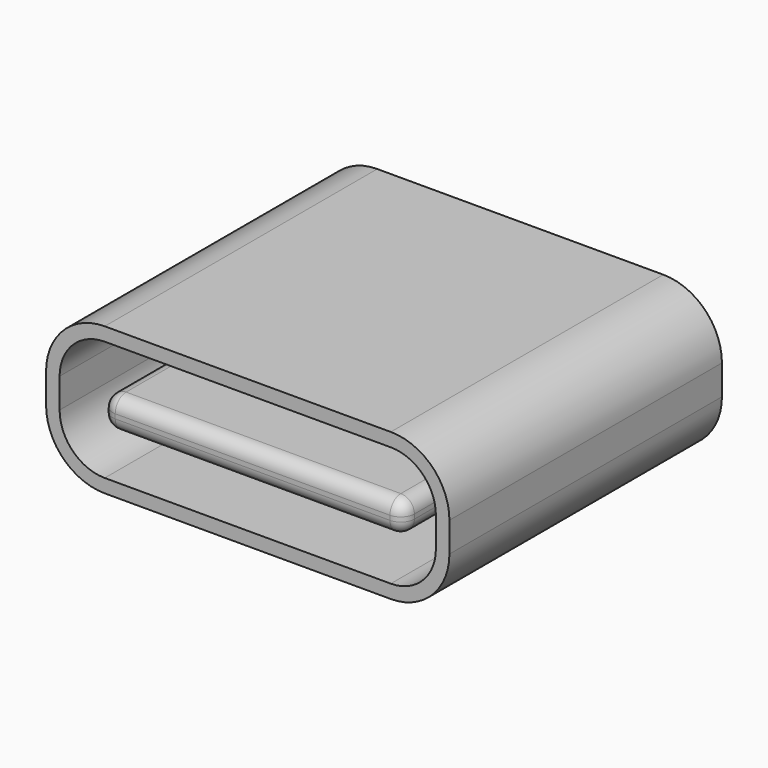
from build123d import *

# Parameters (mm, degrees)
PAD_DEPTH    = 3.775
SKETCH001_W  = 6.69
SKETCH001_H  = 0.7
POCKET_DEPTH = 5
FILLET_R     = 0.3
FILLET001_R  = 0.3


with BuildPart() as part:
    # Sketch → Pad (new body, symmetric)
    with BuildSketch(Plane.XZ):
        with BuildLine():
            Line((-3.17, 3.26), (3.17, 3.26))
            ThreePointArc((4.47, 1.96), (4.089239, 2.879239), (3.17, 3.26))
            Line((4.47, 1.96), (4.47, 1.3))
            ThreePointArc((3.17, 0), (4.089239, 0.380761), (4.47, 1.3))
            Line((3.17, 0), (-3.17, 0))
            ThreePointArc((-4.47, 1.3), (-4.089239, 0.380761), (-3.17, 0))
            Line((-4.47, 1.3), (-4.47, 1.96))
            ThreePointArc((-3.17, 3.26), (-4.089239, 2.879239), (-4.47, 1.96))
        make_face()
    extrude(amount=PAD_DEPTH, both=True)

    # Sketch001 (on Face10 of Pad) → Pocket (cut)
    with BuildSketch(Plane.XZ.offset(3.775)):
        with BuildLine():
            Line((-3.17, 2.96), (3.17, 2.96))
            ThreePointArc((4.17, 1.96), (3.877107, 2.667107), (3.17, 2.96))
            Line((4.17, 1.96), (4.17, 1.3))
            ThreePointArc((3.17, 0.3), (3.877107, 0.592893), (4.17, 1.3))
            Line((3.17, 0.3), (-3.17, 0.3))
            ThreePointArc((-4.17, 1.3), (-3.877107, 0.592893), (-3.17, 0.3))
            Line((-4.17, 1.3), (-4.17, 1.96))
            ThreePointArc((-3.17, 2.96), (-3.877107, 2.667107), (-4.17, 1.96))
        make_face()
        with Locations((0.107557, 1.579315)):
            Rectangle(SKETCH001_W, SKETCH001_H, mode=Mode.SUBTRACT)
    extrude(amount=-POCKET_DEPTH, mode=Mode.SUBTRACT)

    # Fillet
    fillet_edges = [part.edges().sort_by_distance(p)[0] for p in [
        (3.452557, -1.275, 1.229315),
        (3.452557, -1.275, 1.929315),
        (-3.237443, -1.275, 1.929315),
        (-3.237443, -1.275, 1.229315),
    ]]
    fillet(fillet_edges, radius=FILLET_R)

    # Fillet001
    fillet001_edges = [part.edges().sort_by_distance(p)[0] for p in [
        (0.107557, -3.775, 1.229315),
        (3.364689, -3.775, 1.317183),
        (-3.149575, -3.775, 1.317183),
        (3.452557, -3.775, 1.579315),
        (-3.237443, -3.775, 1.579315),
        (3.364689, -3.775, 1.841447),
        (-3.149575, -3.775, 1.841447),
        (0.107557, -3.775, 1.929315),
    ]]
    fillet(fillet001_edges, radius=FILLET001_R)


solid = part.part
